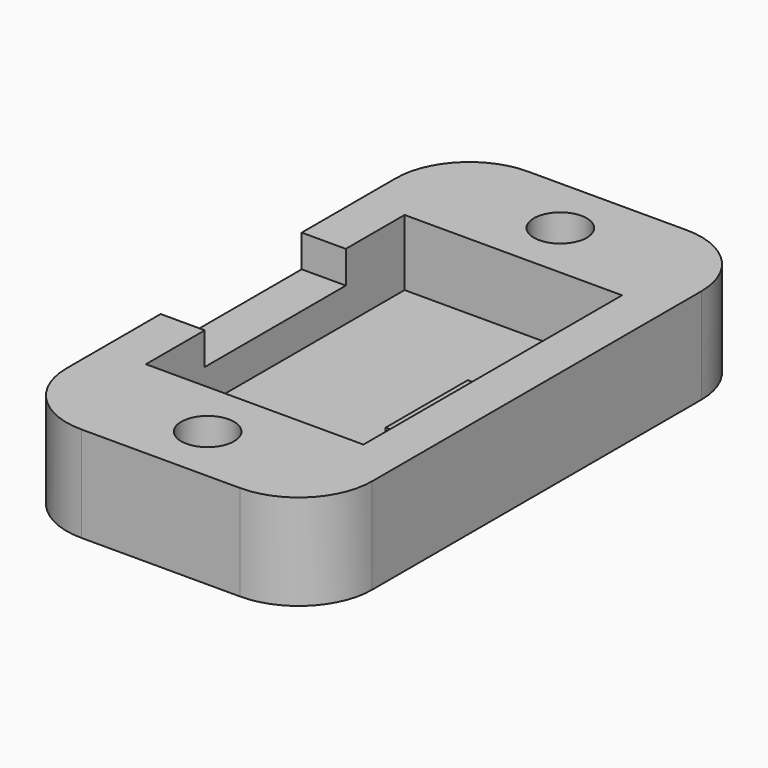
from build123d import *

# Parameters (mm, degrees)
F0_R     = 1.8
F1_DEPTH = 6.5
F2_DEPTH = 2
F3_DEPTH = 3
F0_W     = 3
F0_H     = 12
F4_DEPTH = 4.3
F5_R     = 5


with BuildPart() as f1:
    # F0 (on Top) → F1 (new body)
    with BuildSketch(Plane.XY):
        Polygon((-7.4, 6), (-7.4, 11), (7.4, 11), (7.4, -11), (-7.4, -11), (-7.4, -6), (-10.4, -6), (-10.4, -19), (10.4, -19), (10.4, 19), (-10.4, 19), (-10.4, 6), align=None)
        with Locations((0, -15)):
            Circle(F0_R, mode=Mode.SUBTRACT)
        with Locations((0, 15)):
            Circle(F0_R, mode=Mode.SUBTRACT)
    extrude(amount=F1_DEPTH)

    # F0 (on Top) → F2 (join)
    with BuildSketch(Plane.XY):
        Polygon((7.4, 11), (-7.4, 11), (-7.4, 6), (-7.4, -6), (-7.4, -11), (7.4, -11), align=None)
        Polygon((2.9, -3.5), (2.9, 3.5), (4.9, 3.5), (4.9, 1.5), (6.9, 1.5), (6.9, -1.5), (4.9, -1.5), (4.9, -3.5), align=None, mode=Mode.SUBTRACT)
    extrude(amount=F2_DEPTH)

    # F0 (on Top) → F3 (join)
    with BuildSketch(Plane.XY):
        Polygon((4.9, 3.5), (2.9, 3.5), (2.9, -3.5), (4.9, -3.5), (4.9, -1.5), (4.9, 1.5), align=None)
    extrude(amount=F3_DEPTH)

    # F0 (on Top) → F4 (join)
    with BuildSketch(Plane.XY):
        with Locations((-8.9, 0)):
            Rectangle(F0_W, F0_H)
    extrude(amount=F4_DEPTH)

    # F5
    f5_edges = [f1.edges().sort_by_distance(p)[0] for p in [
        (-10.4, 19, 3.25),
        (10.4, 19, 3.25),
        (-10.4, -19, 3.25),
        (10.4, -19, 3.25),
    ]]
    fillet(f5_edges, radius=F5_R)


solid = f1.part
